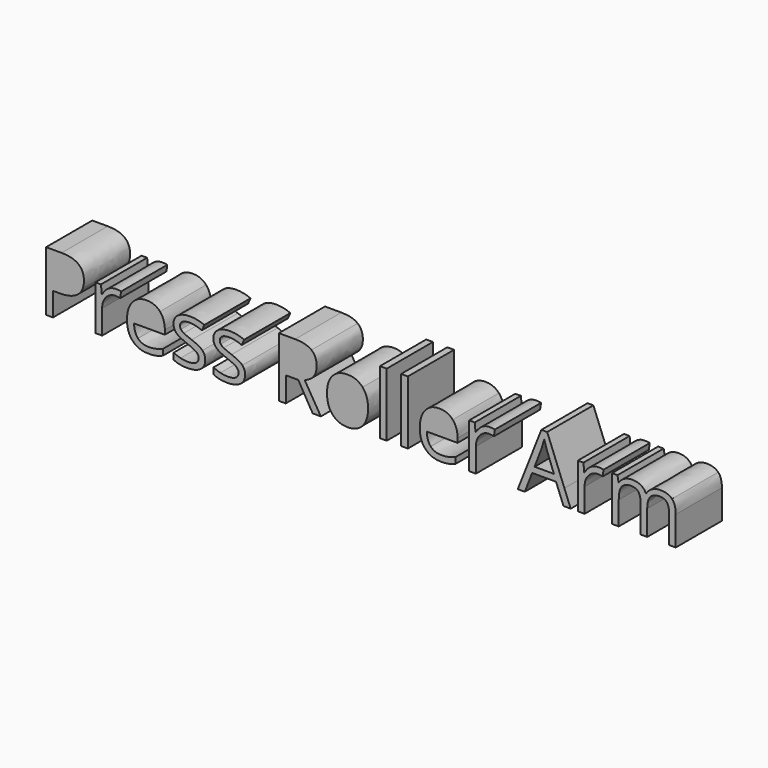
from build123d import *

# Parameters (mm, degrees)
F0_W     = 2.9351768026
F0_H     = 6.9436085224
F0_W_2   = 2.9295213559
F0_H_2   = 27.5024369766
F1_DEPTH = 25


with BuildPart() as f1:
    # F0 (on Front) → F1 (new body)
    with BuildSketch(Plane.XZ):
        with Locations((296.1556984568, -133.4718042612)):
            Rectangle(F0_W, F0_H)
        with Locations((283.82116935, -133.4718042612)):
            Rectangle(F0_W, F0_H)
        with BuildLine():
            Line((282.3535809487, -117.5737038041), (282.3535809487, -130))
            Line((282.3535809487, -130), (285.2887577513, -130))
            Line((285.2887577513, -130), (285.2887577513, -126.7807709228))
            add(Edge.make_bspline(
                [(286.5697164137, -121.3628530483), (285.2887577513, -123.0142434651), (285.2887577513, -126.7807709228)],
                knots=[0, 0, 0, 1, 1, 1], degree=2))
            add(Edge.make_bspline(
                [(290.6048775864, -119.7114626314), (287.8506750761, -119.7114626314), (286.5697164137, -121.3628530483)],
                knots=[0, 0, 0, 1, 1, 1], degree=2))
            add(Edge.make_bspline(
                [(293.6984068947, -120.8680014679), (292.7087037339, -119.7114626314), (290.6048775864, -119.7114626314)],
                knots=[0, 0, 0, 1, 1, 1], degree=2))
            add(Edge.make_bspline(
                [(294.6881100555, -124.3432734239), (294.6881100555, -122.0245403044), (293.6984068947, -120.8680014679)],
                knots=[0, 0, 0, 1, 1, 1], degree=2))
            Line((294.6881100555, -124.3432734239), (294.6881100555, -130))
            Line((294.6881100555, -130), (297.623286858, -130))
            Line((297.623286858, -130), (297.623286858, -126.1247391133))
            add(Edge.make_bspline(
                [(298.9325227536, -121.2836767954), (297.623286858, -122.8558909594), (297.623286858, -126.1247391133)],
                knots=[0, 0, 0, 1, 1, 1], degree=2))
            add(Edge.make_bspline(
                [(302.9789948196, -119.7114626314), (300.2417586492, -119.7114626314), (298.9325227536, -121.2836767954)],
                knots=[0, 0, 0, 1, 1, 1], degree=2))
            add(Edge.make_bspline(
                [(306.055557788, -120.8680014679), (305.0658546272, -119.7114626314), (302.9789948196, -119.7114626314)],
                knots=[0, 0, 0, 1, 1, 1], degree=2))
            add(Edge.make_bspline(
                [(307.0452609487, -124.3432734239), (307.0452609487, -122.0245403044), (306.055557788, -120.8680014679)],
                knots=[0, 0, 0, 1, 1, 1], degree=2))
            Line((307.0452609487, -124.3432734239), (307.0452609487, -130))
            Line((307.0452609487, -130), (309.9747823047, -130))
            Line((309.9747823047, -130), (309.9747823047, -124.3093407441))
            add(Edge.make_bspline(
                [(308.3403582277, -118.9055614862), (309.9747823047, -120.5937123062), (309.9747823047, -124.3093407441)],
                knots=[0, 0, 0, 1, 1, 1], degree=2))
            add(Edge.make_bspline(
                [(303.4201196569, -117.2174106662), (306.7059341508, -117.2174106662), (308.3403582277, -118.9055614862)],
                knots=[0, 0, 0, 1, 1, 1], degree=2))
            add(Edge.make_bspline(
                [(299.6733862625, -118.1024880643), (301.3162935094, -117.2174106662), (303.4201196569, -117.2174106662)],
                knots=[0, 0, 0, 1, 1, 1], degree=2))
            add(Edge.make_bspline(
                [(297.1651956808, -120.5088806067), (298.0304790156, -118.9875654624), (299.6733862625, -118.1024880643)],
                knots=[0, 0, 0, 1, 1, 1], degree=2))
            Line((297.1651956808, -120.5088806067), (297.0238095149, -120.5088806067))
            add(Edge.make_bspline(
                [(291.0855905502, -117.2174106662), (295.6269141966, -117.2174106662), (297.0238095149, -120.5088806067)],
                knots=[0, 0, 0, 1, 1, 1], degree=2))
            add(Edge.make_bspline(
                [(287.7008057403, -118.0148286415), (289.2136377147, -117.2174106662), (291.0855905502, -117.2174106662)],
                knots=[0, 0, 0, 1, 1, 1], degree=2))
            add(Edge.make_bspline(
                [(285.3566231109, -120.226108275), (286.187973766, -118.8122466168), (287.7008057403, -118.0148286415)],
                knots=[0, 0, 0, 1, 1, 1], degree=2))
            Line((285.3566231109, -120.226108275), (285.2152369451, -120.226108275))
            Line((285.2152369451, -120.226108275), (284.7401794279, -117.5737038041))
            Line((284.7401794279, -117.5737038041), (282.3535809487, -117.5737038041))
        make_face()
        with Locations((308.5100216267, -133.4718042612)):
            Rectangle(F0_W_2, F0_H)
        with BuildLine():
            Line((267.5758988965, -117.5737038041), (267.5758988965, -130))
            Line((267.5758988965, -130), (270.5110756991, -130))
            Line((270.5110756991, -130), (270.5110756991, -126.5488976108))
            add(Edge.make_bspline(
                [(272.1794324558, -121.7954947157), (270.5110756991, -123.7042079544), (270.5110756991, -126.5488976108)],
                knots=[0, 0, 0, 1, 1, 1], degree=2))
            add(Edge.make_bspline(
                [(276.200455012, -119.8867814771), (273.8477892126, -119.8867814771), (272.1794324558, -121.7954947157)],
                knots=[0, 0, 0, 1, 1, 1], degree=2))
            add(Edge.make_bspline(
                [(278.3212474994, -120.1525874688), (277.1222928131, -119.8867814771), (276.200455012, -119.8867814771)],
                knots=[0, 0, 0, 1, 1, 1], degree=2))
            Line((278.3212474994, -120.1525874688), (278.7284396569, -117.4323176383))
            add(Edge.make_bspline(
                [(276.415361984, -117.2174106662), (277.7048038164, -117.2174106662), (278.7284396569, -117.4323176383)],
                knots=[0, 0, 0, 1, 1, 1], degree=2))
            add(Edge.make_bspline(
                [(273.0729930239, -118.2438742302), (274.5943081682, -117.2174106662), (276.415361984, -117.2174106662)],
                knots=[0, 0, 0, 1, 1, 1], degree=2))
            add(Edge.make_bspline(
                [(270.4771430193, -121.1592569695), (271.5516778796, -119.2703377941), (273.0729930239, -118.2438742302)],
                knots=[0, 0, 0, 1, 1, 1], degree=2))
            Line((270.4771430193, -121.1592569695), (270.3357568535, -121.1592569695))
            Line((270.3357568535, -121.1592569695), (269.9964300555, -117.5737038041))
            Line((269.9964300555, -117.5737038041), (267.5758988965, -117.5737038041))
        make_face()
        with Locations((269.0434872978, -133.4718042612)):
            Rectangle(F0_W, F0_H)
        Polygon((251.7745810037, -110.9964193699), (244.2940956903, -130), (247.2891649617, -130), (247.7818356807, -128.7262445646), (258.1369584659, -128.7262445646), (258.635765653, -130), (261.7457727961, -130), (254.3025656487, -110.9964193699), align=None)
        with BuildLine():
            Line((254.1951121627, -118.0148286415), (257.2038097715, -126.0229410739))
            Line((257.2038097715, -126.0229410739), (248.8450596478, -126.0229410739))
            Line((248.8450596478, -126.0229410739), (251.8820344897, -118.0148286415))
            add(Edge.make_bspline(
                [(252.9961574764, -114.2878893103), (252.6059316588, -115.9845233002), (251.8820344897, -118.0148286415)],
                knots=[0, 0, 0, 1, 1, 1], degree=2))
            add(Edge.make_bspline(
                [(254.1951121627, -118.0148286415), (253.6126011595, -116.4935134972), (252.9961574764, -114.2878893103)],
                knots=[0, 0, 0, 1, 1, 1], degree=2))
        make_face(mode=Mode.SUBTRACT)
        Polygon((247.2891649617, -130), (244.2940956903, -130), (241.5608443844, -136.9436085224), (244.603474673, -136.9436085224), align=None)
        Polygon((261.7457727961, -130), (258.635765653, -130), (261.3549076001, -136.9436085224), (264.4654032483, -136.9436085224), align=None)
        with BuildLine():
            add(Edge.make_bspline(
                [(106.1864183284, -131.6614213671), (106.1864183284, -134.3647248577), (104.1730793271, -135.832313259)],
                knots=[0, 0, 0, 1, 1, 1], degree=2))
            add(Edge.make_bspline(
                [(104.976152749, -128.4604385728), (106.1864183284, -129.7329140652), (106.1864183284, -131.6614213671)],
                knots=[0, 0, 0, 1, 1, 1], degree=2))
            add(Edge.make_bspline(
                [(100.3217201699, -125.9324539278), (103.7658871695, -127.1879630804), (104.976152749, -128.4604385728)],
                knots=[0, 0, 0, 1, 1, 1], degree=2))
            add(Edge.make_bspline(
                [(96.9284521901, -124.4987982063), (97.8107018648, -124.9936497867), (100.3217201699, -125.9324539278)],
                knots=[0, 0, 0, 1, 1, 1], degree=2))
            add(Edge.make_bspline(
                [(95.6474935277, -123.4581960258), (96.0462025153, -124.0039466259), (96.9284521901, -124.4987982063)],
                knots=[0, 0, 0, 1, 1, 1], degree=2))
            add(Edge.make_bspline(
                [(95.2487845401, -122.1319937904), (95.2487845401, -122.9124454258), (95.6474935277, -123.4581960258)],
                knots=[0, 0, 0, 1, 1, 1], degree=2))
            add(Edge.make_bspline(
                [(96.3091807838, -120.3307340378), (95.2487845401, -120.9839381239), (95.2487845401, -122.1319937904)],
                knots=[0, 0, 0, 1, 1, 1], degree=2))
            add(Edge.make_bspline(
                [(99.4564368351, -119.6775299516), (97.3695770275, -119.6775299516), (96.3091807838, -120.3307340378)],
                knots=[0, 0, 0, 1, 1, 1], degree=2))
            add(Edge.make_bspline(
                [(104.7386239904, -120.8764846378), (101.8260689743, -119.6775299516), (99.4564368351, -119.6775299516)],
                knots=[0, 0, 0, 1, 1, 1], degree=2))
            Line((104.7386239904, -120.8764846378), (105.7848816175, -118.4898861587))
            add(Edge.make_bspline(
                [(99.6656883605, -117.2174106662), (102.7931503486, -117.2174106662), (105.7848816175, -118.4898861587)],
                knots=[0, 0, 0, 1, 1, 1], degree=2))
            add(Edge.make_bspline(
                [(94.3835012052, -118.5888564748), (96.3120085071, -117.2174106662), (99.6656883605, -117.2174106662)],
                knots=[0, 0, 0, 1, 1, 1], degree=2))
            add(Edge.make_bspline(
                [(92.4549939033, -122.3299344225), (92.4549939033, -119.9603022833), (94.3835012052, -118.5888564748)],
                knots=[0, 0, 0, 1, 1, 1], degree=2))
            add(Edge.make_bspline(
                [(93.0120553967, -124.6062516924), (92.4549939033, -123.6533089347), (92.4549939033, -122.3299344225)],
                knots=[0, 0, 0, 1, 1, 1], degree=2))
            add(Edge.make_bspline(
                [(94.7086893866, -126.3113688522), (93.56911689, -125.55919445), (93.0120553967, -124.6062516924)],
                knots=[0, 0, 0, 1, 1, 1], degree=2))
            add(Edge.make_bspline(
                [(98.5515653738, -128.0702127551), (95.8482618832, -127.0635432544), (94.7086893866, -126.3113688522)],
                knots=[0, 0, 0, 1, 1, 1], degree=2))
            add(Edge.make_bspline(
                [(102.3803027444, -129.9704428238), (101.4019104769, -129.1673694019), (98.5515653738, -128.0702127551)],
                knots=[0, 0, 0, 1, 1, 1], degree=2))
            add(Edge.make_bspline(
                [(103.3586950119, -131.9046055723), (103.3586950119, -130.7735162457), (102.3803027444, -129.9704428238)],
                knots=[0, 0, 0, 1, 1, 1], degree=2))
            add(Edge.make_bspline(
                [(102.1229799226, -134.1413347157), (103.3586950119, -133.4089543767), (103.3586950119, -131.9046055723)],
                knots=[0, 0, 0, 1, 1, 1], degree=2))
            add(Edge.make_bspline(
                [(98.5911535002, -134.8737150547), (100.8872648332, -134.8737150547), (102.1229799226, -134.1413347157)],
                knots=[0, 0, 0, 1, 1, 1], degree=2))
            add(Edge.make_bspline(
                [(95.5061073619, -134.4693506204), (97.1037710357, -134.8737150547), (98.5911535002, -134.8737150547)],
                knots=[0, 0, 0, 1, 1, 1], degree=2))
            add(Edge.make_bspline(
                [(92.5115483697, -133.358055357), (93.908443688, -134.0649861862), (95.5061073619, -134.4693506204)],
                knots=[0, 0, 0, 1, 1, 1], degree=2))
            Line((92.5115483697, -133.358055357), (92.5115483697, -136.0783251876))
            add(Edge.make_bspline(
                [(98.517632694, -137.2999016603), (94.6662735369, -137.2999016603), (92.5115483697, -136.0783251876)],
                knots=[0, 0, 0, 1, 1, 1], degree=2))
            add(Edge.make_bspline(
                [(104.1730793271, -135.832313259), (102.1597403257, -137.2999016603), (98.517632694, -137.2999016603)],
                knots=[0, 0, 0, 1, 1, 1], degree=2))
        make_face()
        with BuildLine():
            Line((220.4886502295, -117.5737038041), (220.4886502295, -122.0899235545))
            Line((220.4886502295, -122.0899235545), (223.4238270321, -127.1737989057))
            Line((223.4238270321, -127.1737989057), (223.4238270321, -126.5488976108))
            add(Edge.make_bspline(
                [(225.0921837889, -121.7954947157), (223.4238270321, -123.7042079544), (223.4238270321, -126.5488976108)],
                knots=[0, 0, 0, 1, 1, 1], degree=2))
            add(Edge.make_bspline(
                [(229.113206345, -119.8867814771), (226.7605405456, -119.8867814771), (225.0921837889, -121.7954947157)],
                knots=[0, 0, 0, 1, 1, 1], degree=2))
            add(Edge.make_bspline(
                [(231.2339988324, -120.1525874688), (230.0350441462, -119.8867814771), (229.113206345, -119.8867814771)],
                knots=[0, 0, 0, 1, 1, 1], degree=2))
            Line((231.2339988324, -120.1525874688), (231.64119099, -117.4323176383))
            add(Edge.make_bspline(
                [(229.328113317, -117.2174106662), (230.6175551494, -117.2174106662), (231.64119099, -117.4323176383)],
                knots=[0, 0, 0, 1, 1, 1], degree=2))
            add(Edge.make_bspline(
                [(225.9857443569, -118.2438742302), (227.5070595012, -117.2174106662), (229.328113317, -117.2174106662)],
                knots=[0, 0, 0, 1, 1, 1], degree=2))
            add(Edge.make_bspline(
                [(223.3898943523, -121.1592569695), (224.4644292126, -119.2703377941), (225.9857443569, -118.2438742302)],
                knots=[0, 0, 0, 1, 1, 1], degree=2))
            Line((223.3898943523, -121.1592569695), (223.2485081865, -121.1592569695))
            Line((223.2485081865, -121.1592569695), (222.9091813885, -117.5737038041))
            Line((222.9091813885, -117.5737038041), (220.4886502295, -117.5737038041))
        make_face()
        with BuildLine():
            add(Edge.make_bspline(
                [(53.6416636605, -118.6312723245), (53.6416636605, -122.5561522879), (50.9638096798, -124.6684616053)],
                knots=[0, 0, 0, 1, 1, 1], degree=2))
            add(Edge.make_bspline(
                [(43.9595390247, -111.1038728559), (53.6416636605, -111.1038728559), (53.6416636605, -118.6312723245)],
                knots=[0, 0, 0, 1, 1, 1], degree=2))
            Line((43.9595390247, -111.1038728559), (37.2578347645, -111.1038728559))
            Line((37.2578347645, -111.1038728559), (37.2578347645, -136.9436085224))
            Line((37.2578347645, -136.9436085224), (40.2608769267, -136.9436085224))
            Line((40.2608769267, -136.9436085224), (40.2608769267, -126.7807709228))
            Line((40.2608769267, -126.7807709228), (43.3035072153, -126.7807709228))
            add(Edge.make_bspline(
                [(50.9638096798, -124.6684616053), (48.285955699, -126.7807709228), (43.3035072153, -126.7807709228)],
                knots=[0, 0, 0, 1, 1, 1], degree=2))
        make_face()
        with BuildLine():
            Line((42.9698358639, -124.2018872581), (40.2608769267, -124.2018872581))
            Line((40.2608769267, -124.2018872581), (40.2608769267, -113.7053783071))
            Line((40.2608769267, -113.7053783071), (43.6202122267, -113.7053783071))
            add(Edge.make_bspline(
                [(48.8515003623, -114.9580597363), (47.1718327123, -113.7053783071), (43.6202122267, -113.7053783071)],
                knots=[0, 0, 0, 1, 1, 1], degree=2))
            add(Edge.make_bspline(
                [(50.5311680123, -118.7726584903), (50.5311680123, -116.2107411656), (48.8515003623, -114.9580597363)],
                knots=[0, 0, 0, 1, 1, 1], degree=2))
            add(Edge.make_bspline(
                [(48.7468745996, -122.9124454258), (50.5311680123, -121.6230035934), (50.5311680123, -118.7726584903)],
                knots=[0, 0, 0, 1, 1, 1], degree=2))
            add(Edge.make_bspline(
                [(42.9698358639, -124.2018872581), (46.9625811869, -124.2018872581), (48.7468745996, -122.9124454258)],
                knots=[0, 0, 0, 1, 1, 1], degree=2))
        make_face(mode=Mode.SUBTRACT)
        with BuildLine():
            Line((40.2608769267, -113.7053783071), (40.2608769267, -124.2018872581))
            Line((40.2608769267, -124.2018872581), (42.9698358639, -124.2018872581))
            add(Edge.make_bspline(
                [(42.9698358639, -124.2018872581), (46.9625811869, -124.2018872581), (48.7468745996, -122.9124454258)],
                knots=[0, 0, 0, 1, 1, 1], degree=2))
            add(Edge.make_bspline(
                [(48.7468745996, -122.9124454258), (50.5311680123, -121.6230035934), (50.5311680123, -118.7726584903)],
                knots=[0, 0, 0, 1, 1, 1], degree=2))
            add(Edge.make_bspline(
                [(50.5311680123, -118.7726584903), (50.5311680123, -116.2107411656), (48.8515003623, -114.9580597363)],
                knots=[0, 0, 0, 1, 1, 1], degree=2))
            add(Edge.make_bspline(
                [(48.8515003623, -114.9580597363), (47.1718327123, -113.7053783071), (43.6202122267, -113.7053783071)],
                knots=[0, 0, 0, 1, 1, 1], degree=2))
            Line((43.6202122267, -113.7053783071), (40.2608769267, -113.7053783071))
        make_face()
        with BuildLine():
            add(Edge.make_bspline(
                [(81.5682591347, -137.2999016603), (77.2757751402, -137.2999016603), (74.7902063449, -134.6814298692)],
                knots=[0, 0, 0, 1, 1, 1], degree=2))
            add(Edge.make_bspline(
                [(84.9162835414, -137.0058184354), (83.5306991163, -137.2999016603), (81.5682591347, -137.2999016603)],
                knots=[0, 0, 0, 1, 1, 1], degree=2))
            add(Edge.make_bspline(
                [(87.8571157906, -136.0443925078), (86.3018679665, -136.7117352105), (84.9162835414, -137.0058184354)],
                knots=[0, 0, 0, 1, 1, 1], degree=2))
            Line((87.8571157906, -136.0443925078), (87.8571157906, -133.4259207166))
            add(Edge.make_bspline(
                [(81.6757126207, -134.7323288889), (84.8031746088, -134.7323288889), (87.8571157906, -133.4259207166)],
                knots=[0, 0, 0, 1, 1, 1], degree=2))
            add(Edge.make_bspline(
                [(77.0721790614, -132.965001816), (78.7066031383, -134.7323288889), (81.6757126207, -134.7323288889)],
                knots=[0, 0, 0, 1, 1, 1], degree=2))
            add(Edge.make_bspline(
                [(75.3472678383, -127.7874404235), (75.4377549844, -131.1976747432), (77.0721790614, -132.965001816)],
                knots=[0, 0, 0, 1, 1, 1], degree=2))
            Line((75.3472678383, -127.7874404235), (88.6884664457, -127.7874404235))
            Line((88.6884664457, -127.7874404235), (88.6884664457, -125.9324539278))
            add(Edge.make_bspline(
                [(86.5676739583, -119.6124923154), (88.6884664457, -122.0075739645), (88.6884664457, -125.9324539278)],
                knots=[0, 0, 0, 1, 1, 1], degree=2))
            add(Edge.make_bspline(
                [(80.8104292858, -117.2174106662), (84.4468814709, -117.2174106662), (86.5676739583, -119.6124923154)],
                knots=[0, 0, 0, 1, 1, 1], degree=2))
            add(Edge.make_bspline(
                [(74.612059776, -119.9744408999), (76.9194820023, -117.2174106662), (80.8104292858, -117.2174106662)],
                knots=[0, 0, 0, 1, 1, 1], degree=2))
            add(Edge.make_bspline(
                [(72.3046375497, -127.4198363923), (72.3046375497, -122.7314711335), (74.612059776, -119.9744408999)],
                knots=[0, 0, 0, 1, 1, 1], degree=2))
            add(Edge.make_bspline(
                [(74.7902063449, -134.6814298692), (72.3046375497, -132.0629580781), (72.3046375497, -127.4198363923)],
                knots=[0, 0, 0, 1, 1, 1], degree=2))
        make_face()
        with BuildLine():
            add(Edge.make_bspline(
                [(80.7708411594, -119.6775299516), (78.4407971466, -119.6775299516), (77.0523849981, -121.1960173726)],
                knots=[0, 0, 0, 1, 1, 1], degree=2))
            add(Edge.make_bspline(
                [(84.3083230284, -121.1536015229), (83.0726079391, -119.6775299516), (80.7708411594, -119.6775299516)],
                knots=[0, 0, 0, 1, 1, 1], degree=2))
            add(Edge.make_bspline(
                [(85.5440381177, -125.4008419443), (85.5440381177, -122.6296730941), (84.3083230284, -121.1536015229)],
                knots=[0, 0, 0, 1, 1, 1], degree=2))
            Line((85.5440381177, -125.4008419443), (75.4151331979, -125.4008419443))
            add(Edge.make_bspline(
                [(77.0523849981, -121.1960173726), (75.6639728497, -122.7145047936), (75.4151331979, -125.4008419443)],
                knots=[0, 0, 0, 1, 1, 1], degree=2))
        make_face(mode=Mode.SUBTRACT)
        with BuildLine():
            add(Edge.make_bspline(
                [(84.3083230284, -121.1536015229), (83.0726079391, -119.6775299516), (80.7708411594, -119.6775299516)],
                knots=[0, 0, 0, 1, 1, 1], degree=2))
            add(Edge.make_bspline(
                [(80.7708411594, -119.6775299516), (78.4407971466, -119.6775299516), (77.0523849981, -121.1960173726)],
                knots=[0, 0, 0, 1, 1, 1], degree=2))
            add(Edge.make_bspline(
                [(77.0523849981, -121.1960173726), (75.6639728497, -122.7145047936), (75.4151331979, -125.4008419443)],
                knots=[0, 0, 0, 1, 1, 1], degree=2))
            Line((75.4151331979, -125.4008419443), (85.5440381177, -125.4008419443))
            add(Edge.make_bspline(
                [(85.5440381177, -125.4008419443), (85.5440381177, -122.6296730941), (84.3083230284, -121.1536015229)],
                knots=[0, 0, 0, 1, 1, 1], degree=2))
        make_face()
        with BuildLine():
            Line((141.0748686079, -136.9436085224), (141.0748686079, -126.1982599196))
            Line((141.0748686079, -126.1982599196), (146.4701646958, -126.1982599196))
            Line((146.4701646958, -126.1982599196), (152.725088672, -136.9436085224))
            Line((152.725088672, -136.9436085224), (156.2767091576, -136.9436085224))
            Line((156.2767091576, -136.9436085224), (149.2582998859, -125.3329765847))
            add(Edge.make_bspline(
                [(154.4556553417, -118.4050544592), (154.4556553417, -123.5288891088), (149.2582998859, -125.3329765847)],
                knots=[0, 0, 0, 1, 1, 1], degree=2))
            add(Edge.make_bspline(
                [(152.1849935186, -112.9249266717), (154.4556553417, -114.7459804876), (154.4556553417, -118.4050544592)],
                knots=[0, 0, 0, 1, 1, 1], degree=2))
            add(Edge.make_bspline(
                [(145.158101077, -111.1038728559), (149.9143316954, -111.1038728559), (152.1849935186, -112.9249266717)],
                knots=[0, 0, 0, 1, 1, 1], degree=2))
            Line((145.158101077, -111.1038728559), (138.0718264457, -111.1038728559))
            Line((138.0718264457, -111.1038728559), (138.0718264457, -136.9436085224))
            Line((138.0718264457, -136.9436085224), (141.0748686079, -136.9436085224))
        make_face()
        with BuildLine():
            Line((145.1976892034, -123.6193762549), (141.0748686079, -123.6193762549))
            Line((141.0748686079, -123.6193762549), (141.0748686079, -113.7393109869))
            Line((141.0748686079, -113.7393109869), (144.9827822313, -113.7393109869))
            add(Edge.make_bspline(
                [(149.8351554425, -114.8704003135), (148.3251511915, -113.7393109869), (144.9827822313, -113.7393109869)],
                knots=[0, 0, 0, 1, 1, 1], degree=2))
            add(Edge.make_bspline(
                [(151.3451596935, -118.5634069649), (151.3451596935, -116.0014896401), (149.8351554425, -114.8704003135)],
                knots=[0, 0, 0, 1, 1, 1], degree=2))
            add(Edge.make_bspline(
                [(149.8606049524, -122.3553839324), (151.3451596935, -121.0913916099), (151.3451596935, -118.5634069649)],
                knots=[0, 0, 0, 1, 1, 1], degree=2))
            add(Edge.make_bspline(
                [(145.1976892034, -123.6193762549), (148.3760502112, -123.6193762549), (149.8606049524, -122.3553839324)],
                knots=[0, 0, 0, 1, 1, 1], degree=2))
        make_face(mode=Mode.SUBTRACT)
        with BuildLine():
            Line((141.0748686079, -113.7393109869), (141.0748686079, -123.6193762549))
            Line((141.0748686079, -123.6193762549), (145.1976892034, -123.6193762549))
            add(Edge.make_bspline(
                [(145.1976892034, -123.6193762549), (148.3760502112, -123.6193762549), (149.8606049524, -122.3553839324)],
                knots=[0, 0, 0, 1, 1, 1], degree=2))
            add(Edge.make_bspline(
                [(149.8606049524, -122.3553839324), (151.3451596935, -121.0913916099), (151.3451596935, -118.5634069649)],
                knots=[0, 0, 0, 1, 1, 1], degree=2))
            add(Edge.make_bspline(
                [(151.3451596935, -118.5634069649), (151.3451596935, -116.0014896401), (149.8351554425, -114.8704003135)],
                knots=[0, 0, 0, 1, 1, 1], degree=2))
            add(Edge.make_bspline(
                [(149.8351554425, -114.8704003135), (148.3251511915, -113.7393109869), (144.9827822313, -113.7393109869)],
                knots=[0, 0, 0, 1, 1, 1], degree=2))
            Line((144.9827822313, -113.7393109869), (141.0748686079, -113.7393109869))
        make_face()
        with BuildLine():
            add(Edge.make_bspline(
                [(176.7211487362, -127.2388621001), (176.7211487362, -131.9781263786), (174.3373779803, -134.6390140194)],
                knots=[0, 0, 0, 1, 1, 1], degree=2))
            add(Edge.make_bspline(
                [(174.326067087, -119.9235418802), (176.7211487362, -122.6296730941), (176.7211487362, -127.2388621001)],
                knots=[0, 0, 0, 1, 1, 1], degree=2))
            add(Edge.make_bspline(
                [(167.8703747554, -117.2174106662), (171.9309854379, -117.2174106662), (174.326067087, -119.9235418802)],
                knots=[0, 0, 0, 1, 1, 1], degree=2))
            add(Edge.make_bspline(
                [(161.2930903211, -119.8613319672), (163.6627224604, -117.2174106662), (167.8703747554, -117.2174106662)],
                knots=[0, 0, 0, 1, 1, 1], degree=2))
            add(Edge.make_bspline(
                [(158.9234581819, -127.2388621001), (158.9234581819, -122.5052532682), (161.2930903211, -119.8613319672)],
                knots=[0, 0, 0, 1, 1, 1], degree=2))
            add(Edge.make_bspline(
                [(160.0206148287, -132.5776037217), (158.9234581819, -130.2984587286), (158.9234581819, -127.2388621001)],
                knots=[0, 0, 0, 1, 1, 1], degree=2))
            add(Edge.make_bspline(
                [(163.1311104769, -136.0783251876), (161.1177714755, -134.8567487148), (160.0206148287, -132.5776037217)],
                knots=[0, 0, 0, 1, 1, 1], degree=2))
            add(Edge.make_bspline(
                [(167.7459549295, -137.2999016603), (165.1444494782, -137.2999016603), (163.1311104769, -136.0783251876)],
                knots=[0, 0, 0, 1, 1, 1], degree=2))
            add(Edge.make_bspline(
                [(174.3373779803, -134.6390140194), (171.9536072245, -137.2999016603), (167.7459549295, -137.2999016603)],
                knots=[0, 0, 0, 1, 1, 1], degree=2))
        make_face()
        with BuildLine():
            add(Edge.make_bspline(
                [(161.9660884705, -127.2388621001), (161.9660884705, -130.954490538), (163.4506432116, -132.8971364564)],
                knots=[0, 0, 0, 1, 1, 1], degree=2))
            add(Edge.make_bspline(
                [(163.4336768717, -121.6032095302), (161.9660884705, -123.494956429), (161.9660884705, -127.2388621001)],
                knots=[0, 0, 0, 1, 1, 1], degree=2))
            add(Edge.make_bspline(
                [(167.7798876093, -119.7114626314), (164.901265273, -119.7114626314), (163.4336768717, -121.6032095302)],
                knots=[0, 0, 0, 1, 1, 1], degree=2))
            add(Edge.make_bspline(
                [(172.1911359831, -121.62865904), (170.6980980719, -119.7114626314), (167.7798876093, -119.7114626314)],
                knots=[0, 0, 0, 1, 1, 1], degree=2))
            add(Edge.make_bspline(
                [(173.6841738942, -127.2388621001), (173.6841738942, -123.5458554487), (172.1911359831, -121.62865904)],
                knots=[0, 0, 0, 1, 1, 1], degree=2))
            add(Edge.make_bspline(
                [(172.1911359831, -132.9056196264), (173.6841738942, -130.9714568779), (173.6841738942, -127.2388621001)],
                knots=[0, 0, 0, 1, 1, 1], degree=2))
            add(Edge.make_bspline(
                [(167.8138202891, -134.8397823749), (170.6980980719, -134.8397823749), (172.1911359831, -132.9056196264)],
                knots=[0, 0, 0, 1, 1, 1], degree=2))
            add(Edge.make_bspline(
                [(163.4506432116, -132.8971364564), (164.9351979528, -134.8397823749), (167.8138202891, -134.8397823749)],
                knots=[0, 0, 0, 1, 1, 1], degree=2))
        make_face(mode=Mode.SUBTRACT)
        with BuildLine():
            add(Edge.make_bspline(
                [(163.4336768717, -121.6032095302), (161.9660884705, -123.494956429), (161.9660884705, -127.2388621001)],
                knots=[0, 0, 0, 1, 1, 1], degree=2))
            add(Edge.make_bspline(
                [(161.9660884705, -127.2388621001), (161.9660884705, -130.954490538), (163.4506432116, -132.8971364564)],
                knots=[0, 0, 0, 1, 1, 1], degree=2))
            add(Edge.make_bspline(
                [(163.4506432116, -132.8971364564), (164.9351979528, -134.8397823749), (167.8138202891, -134.8397823749)],
                knots=[0, 0, 0, 1, 1, 1], degree=2))
            add(Edge.make_bspline(
                [(167.8138202891, -134.8397823749), (170.6980980719, -134.8397823749), (172.1911359831, -132.9056196264)],
                knots=[0, 0, 0, 1, 1, 1], degree=2))
            add(Edge.make_bspline(
                [(172.1911359831, -132.9056196264), (173.6841738942, -130.9714568779), (173.6841738942, -127.2388621001)],
                knots=[0, 0, 0, 1, 1, 1], degree=2))
            add(Edge.make_bspline(
                [(173.6841738942, -127.2388621001), (173.6841738942, -123.5458554487), (172.1911359831, -121.62865904)],
                knots=[0, 0, 0, 1, 1, 1], degree=2))
            add(Edge.make_bspline(
                [(172.1911359831, -121.62865904), (170.6980980719, -119.7114626314), (167.7798876093, -119.7114626314)],
                knots=[0, 0, 0, 1, 1, 1], degree=2))
            add(Edge.make_bspline(
                [(167.7798876093, -119.7114626314), (164.901265273, -119.7114626314), (163.4336768717, -121.6032095302)],
                knots=[0, 0, 0, 1, 1, 1], degree=2))
        make_face()
        with BuildLine():
            add(Edge.make_bspline(
                [(208.3633726482, -137.2999016603), (204.0708886537, -137.2999016603), (201.5853198585, -134.6814298692)],
                knots=[0, 0, 0, 1, 1, 1], degree=2))
            add(Edge.make_bspline(
                [(211.711397055, -137.0058184354), (210.3258126299, -137.2999016603), (208.3633726482, -137.2999016603)],
                knots=[0, 0, 0, 1, 1, 1], degree=2))
            add(Edge.make_bspline(
                [(214.6522293042, -136.0443925078), (213.0969814801, -136.7117352105), (211.711397055, -137.0058184354)],
                knots=[0, 0, 0, 1, 1, 1], degree=2))
            Line((214.6522293042, -136.0443925078), (214.6522293042, -133.4259207166))
            add(Edge.make_bspline(
                [(208.4708261342, -134.7323288889), (211.5982881223, -134.7323288889), (214.6522293042, -133.4259207166)],
                knots=[0, 0, 0, 1, 1, 1], degree=2))
            add(Edge.make_bspline(
                [(203.8672925749, -132.965001816), (205.5017166519, -134.7323288889), (208.4708261342, -134.7323288889)],
                knots=[0, 0, 0, 1, 1, 1], degree=2))
            add(Edge.make_bspline(
                [(202.1423813518, -127.7874404235), (202.232868498, -131.1976747432), (203.8672925749, -132.965001816)],
                knots=[0, 0, 0, 1, 1, 1], degree=2))
            Line((202.1423813518, -127.7874404235), (215.4835799593, -127.7874404235))
            Line((215.4835799593, -127.7874404235), (215.4835799593, -125.9324539278))
            add(Edge.make_bspline(
                [(213.3627874719, -119.6124923154), (215.4835799593, -122.0075739645), (215.4835799593, -125.9324539278)],
                knots=[0, 0, 0, 1, 1, 1], degree=2))
            add(Edge.make_bspline(
                [(207.6055427994, -117.2174106662), (211.2419949844, -117.2174106662), (213.3627874719, -119.6124923154)],
                knots=[0, 0, 0, 1, 1, 1], degree=2))
            add(Edge.make_bspline(
                [(201.4071732895, -119.9744408999), (203.7145955158, -117.2174106662), (207.6055427994, -117.2174106662)],
                knots=[0, 0, 0, 1, 1, 1], degree=2))
            add(Edge.make_bspline(
                [(199.0997510632, -127.4198363923), (199.0997510632, -122.7314711335), (201.4071732895, -119.9744408999)],
                knots=[0, 0, 0, 1, 1, 1], degree=2))
            add(Edge.make_bspline(
                [(201.5853198585, -134.6814298692), (199.0997510632, -132.0629580781), (199.0997510632, -127.4198363923)],
                knots=[0, 0, 0, 1, 1, 1], degree=2))
        make_face()
        with BuildLine():
            add(Edge.make_bspline(
                [(207.5659546729, -119.6775299516), (205.2359106601, -119.6775299516), (203.8474985117, -121.1960173726)],
                knots=[0, 0, 0, 1, 1, 1], degree=2))
            add(Edge.make_bspline(
                [(211.1034365419, -121.1536015229), (209.8677214526, -119.6775299516), (207.5659546729, -119.6775299516)],
                knots=[0, 0, 0, 1, 1, 1], degree=2))
            add(Edge.make_bspline(
                [(212.3391516313, -125.4008419443), (212.3391516313, -122.6296730941), (211.1034365419, -121.1536015229)],
                knots=[0, 0, 0, 1, 1, 1], degree=2))
            Line((212.3391516313, -125.4008419443), (202.2102467114, -125.4008419443))
            add(Edge.make_bspline(
                [(203.8474985117, -121.1960173726), (202.4590863633, -122.7145047936), (202.2102467114, -125.4008419443)],
                knots=[0, 0, 0, 1, 1, 1], degree=2))
        make_face(mode=Mode.SUBTRACT)
        with BuildLine():
            add(Edge.make_bspline(
                [(211.1034365419, -121.1536015229), (209.8677214526, -119.6775299516), (207.5659546729, -119.6775299516)],
                knots=[0, 0, 0, 1, 1, 1], degree=2))
            add(Edge.make_bspline(
                [(207.5659546729, -119.6775299516), (205.2359106601, -119.6775299516), (203.8474985117, -121.1960173726)],
                knots=[0, 0, 0, 1, 1, 1], degree=2))
            add(Edge.make_bspline(
                [(203.8474985117, -121.1960173726), (202.4590863633, -122.7145047936), (202.2102467114, -125.4008419443)],
                knots=[0, 0, 0, 1, 1, 1], degree=2))
            Line((202.2102467114, -125.4008419443), (212.3391516313, -125.4008419443))
            add(Edge.make_bspline(
                [(212.3391516313, -125.4008419443), (212.3391516313, -122.6296730941), (211.1034365419, -121.1536015229)],
                knots=[0, 0, 0, 1, 1, 1], degree=2))
        make_face()
        with BuildLine():
            add(Edge.make_bspline(
                [(67.4466088919, -117.2174106662), (68.7360507242, -117.2174106662), (69.7596865648, -117.4323176383)],
                knots=[0, 0, 0, 1, 1, 1], degree=2))
            add(Edge.make_bspline(
                [(64.1042399317, -118.2438742302), (65.625555076, -117.2174106662), (67.4466088919, -117.2174106662)],
                knots=[0, 0, 0, 1, 1, 1], degree=2))
            add(Edge.make_bspline(
                [(61.5083899271, -121.1592569695), (62.5829247874, -119.2703377941), (64.1042399317, -118.2438742302)],
                knots=[0, 0, 0, 1, 1, 1], degree=2))
            Line((61.5083899271, -121.1592569695), (61.3670037613, -121.1592569695))
            Line((61.3670037613, -121.1592569695), (61.0276769633, -117.5737038041))
            Line((61.0276769633, -117.5737038041), (58.6071458044, -117.5737038041))
            Line((58.6071458044, -117.5737038041), (58.6071458044, -136.9436085224))
            Line((58.6071458044, -136.9436085224), (61.5423226069, -136.9436085224))
            Line((61.5423226069, -136.9436085224), (61.5423226069, -126.5488976108))
            add(Edge.make_bspline(
                [(63.2106793637, -121.7954947157), (61.5423226069, -123.7042079544), (61.5423226069, -126.5488976108)],
                knots=[0, 0, 0, 1, 1, 1], degree=2))
            add(Edge.make_bspline(
                [(67.2317019198, -119.8867814771), (64.8790361204, -119.8867814771), (63.2106793637, -121.7954947157)],
                knots=[0, 0, 0, 1, 1, 1], degree=2))
            add(Edge.make_bspline(
                [(69.3524944072, -120.1525874688), (68.153539721, -119.8867814771), (67.2317019198, -119.8867814771)],
                knots=[0, 0, 0, 1, 1, 1], degree=2))
            Line((69.3524944072, -120.1525874688), (69.7596865648, -117.4323176383))
        make_face()
        with BuildLine():
            add(Edge.make_bspline(
                [(123.4524968992, -131.6614213671), (123.4524968992, -134.3647248577), (121.4391578978, -135.832313259)],
                knots=[0, 0, 0, 1, 1, 1], degree=2))
            add(Edge.make_bspline(
                [(122.2422313197, -128.4604385728), (123.4524968992, -129.7329140652), (123.4524968992, -131.6614213671)],
                knots=[0, 0, 0, 1, 1, 1], degree=2))
            add(Edge.make_bspline(
                [(117.5877987407, -125.9324539278), (121.0319657403, -127.1879630804), (122.2422313197, -128.4604385728)],
                knots=[0, 0, 0, 1, 1, 1], degree=2))
            add(Edge.make_bspline(
                [(114.1945307609, -124.4987982063), (115.0767804356, -124.9936497867), (117.5877987407, -125.9324539278)],
                knots=[0, 0, 0, 1, 1, 1], degree=2))
            add(Edge.make_bspline(
                [(112.9135720985, -123.4581960258), (113.3122810861, -124.0039466259), (114.1945307609, -124.4987982063)],
                knots=[0, 0, 0, 1, 1, 1], degree=2))
            add(Edge.make_bspline(
                [(112.5148631108, -122.1319937904), (112.5148631108, -122.9124454258), (112.9135720985, -123.4581960258)],
                knots=[0, 0, 0, 1, 1, 1], degree=2))
            add(Edge.make_bspline(
                [(113.5752593545, -120.3307340378), (112.5148631108, -120.9839381239), (112.5148631108, -122.1319937904)],
                knots=[0, 0, 0, 1, 1, 1], degree=2))
            add(Edge.make_bspline(
                [(116.7225154059, -119.6775299516), (114.6356555982, -119.6775299516), (113.5752593545, -120.3307340378)],
                knots=[0, 0, 0, 1, 1, 1], degree=2))
            add(Edge.make_bspline(
                [(122.0047025611, -120.8764846378), (119.0921475451, -119.6775299516), (116.7225154059, -119.6775299516)],
                knots=[0, 0, 0, 1, 1, 1], degree=2))
            Line((122.0047025611, -120.8764846378), (123.0509601883, -118.4898861587))
            add(Edge.make_bspline(
                [(116.9317669313, -117.2174106662), (120.0592289194, -117.2174106662), (123.0509601883, -118.4898861587)],
                knots=[0, 0, 0, 1, 1, 1], degree=2))
            add(Edge.make_bspline(
                [(111.649579776, -118.5888564748), (113.5780870779, -117.2174106662), (116.9317669313, -117.2174106662)],
                knots=[0, 0, 0, 1, 1, 1], degree=2))
            add(Edge.make_bspline(
                [(109.7210724741, -122.3299344225), (109.7210724741, -119.9603022833), (111.649579776, -118.5888564748)],
                knots=[0, 0, 0, 1, 1, 1], degree=2))
            add(Edge.make_bspline(
                [(110.2781339675, -124.6062516924), (109.7210724741, -123.6533089347), (109.7210724741, -122.3299344225)],
                knots=[0, 0, 0, 1, 1, 1], degree=2))
            add(Edge.make_bspline(
                [(111.9747679574, -126.3113688522), (110.8351954608, -125.55919445), (110.2781339675, -124.6062516924)],
                knots=[0, 0, 0, 1, 1, 1], degree=2))
            add(Edge.make_bspline(
                [(115.8176439446, -128.0702127551), (113.114340454, -127.0635432544), (111.9747679574, -126.3113688522)],
                knots=[0, 0, 0, 1, 1, 1], degree=2))
            add(Edge.make_bspline(
                [(119.6463813152, -129.9704428238), (118.6679890476, -129.1673694019), (115.8176439446, -128.0702127551)],
                knots=[0, 0, 0, 1, 1, 1], degree=2))
            add(Edge.make_bspline(
                [(120.6247735827, -131.9046055723), (120.6247735827, -130.7735162457), (119.6463813152, -129.9704428238)],
                knots=[0, 0, 0, 1, 1, 1], degree=2))
            add(Edge.make_bspline(
                [(119.3890584933, -134.1413347157), (120.6247735827, -133.4089543767), (120.6247735827, -131.9046055723)],
                knots=[0, 0, 0, 1, 1, 1], degree=2))
            add(Edge.make_bspline(
                [(115.857232071, -134.8737150547), (118.153343404, -134.8737150547), (119.3890584933, -134.1413347157)],
                knots=[0, 0, 0, 1, 1, 1], degree=2))
            add(Edge.make_bspline(
                [(112.7721859327, -134.4693506204), (114.3698496065, -134.8737150547), (115.857232071, -134.8737150547)],
                knots=[0, 0, 0, 1, 1, 1], degree=2))
            add(Edge.make_bspline(
                [(109.7776269404, -133.358055357), (111.1745222588, -134.0649861862), (112.7721859327, -134.4693506204)],
                knots=[0, 0, 0, 1, 1, 1], degree=2))
            Line((109.7776269404, -133.358055357), (109.7776269404, -136.0783251876))
            add(Edge.make_bspline(
                [(115.7837112648, -137.2999016603), (111.9323521076, -137.2999016603), (109.7776269404, -136.0783251876)],
                knots=[0, 0, 0, 1, 1, 1], degree=2))
            add(Edge.make_bspline(
                [(121.4391578978, -135.832313259), (119.4258188965, -137.2999016603), (115.7837112648, -137.2999016603)],
                knots=[0, 0, 0, 1, 1, 1], degree=2))
        make_face()
        with Locations((183.3351935735, -123.1923900341)):
            Rectangle(F0_W, F0_H_2)
        with Locations((192.4913616725, -123.1923900341)):
            Rectangle(F0_W, F0_H_2)
        Polygon((223.4238270321, -127.1737989057), (220.4886502295, -122.0899235545), (220.4886502295, -136.9436085224), (223.4238270321, -136.9436085224), align=None)
    extrude(amount=F1_DEPTH)


solid = f1.part
